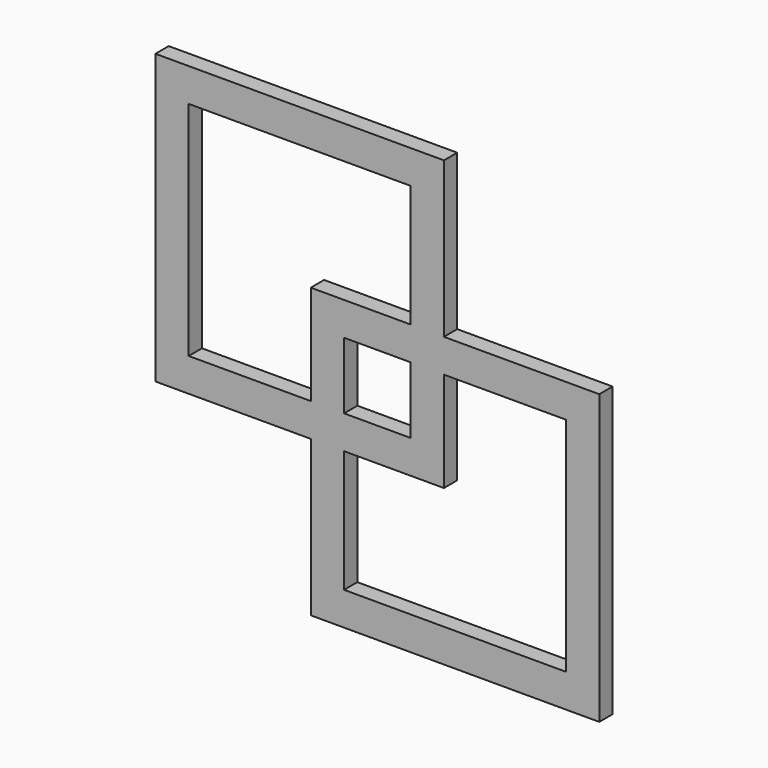
from build123d import *

# Parameters (mm, degrees)
F0_W     = 76.2
F0_H     = 76.2
F1_DEPTH = 19.05


with BuildPart() as f1:
    # F0 (on Front) → F1 (new body)
    with BuildSketch(Plane.XZ):
        Polygon((28.333674, 257.741991), (-301.866326, 257.741991), (-301.866326, -72.458009), (-124.066326, -72.458009), (-124.066326, -250.258009), (206.133674, -250.258009), (206.133674, 79.941991), (28.333674, 79.941991), align=None)
        Polygon((168.033674, -212.158009), (-85.966326, -212.158009), (-85.966326, -72.458009), (28.333674, -72.458009), (28.333674, 41.841991), (168.033674, 41.841991), align=None, mode=Mode.SUBTRACT)
        with Locations((-47.866326, 3.741991)):
            Rectangle(F0_W, F0_H, mode=Mode.SUBTRACT)
        Polygon((-263.766326, -34.358009), (-263.766326, 219.641991), (-9.766326, 219.641991), (-9.766326, 79.941991), (-124.066326, 79.941991), (-124.066326, -34.358009), align=None, mode=Mode.SUBTRACT)
    extrude(amount=F1_DEPTH)


solid = f1.part
